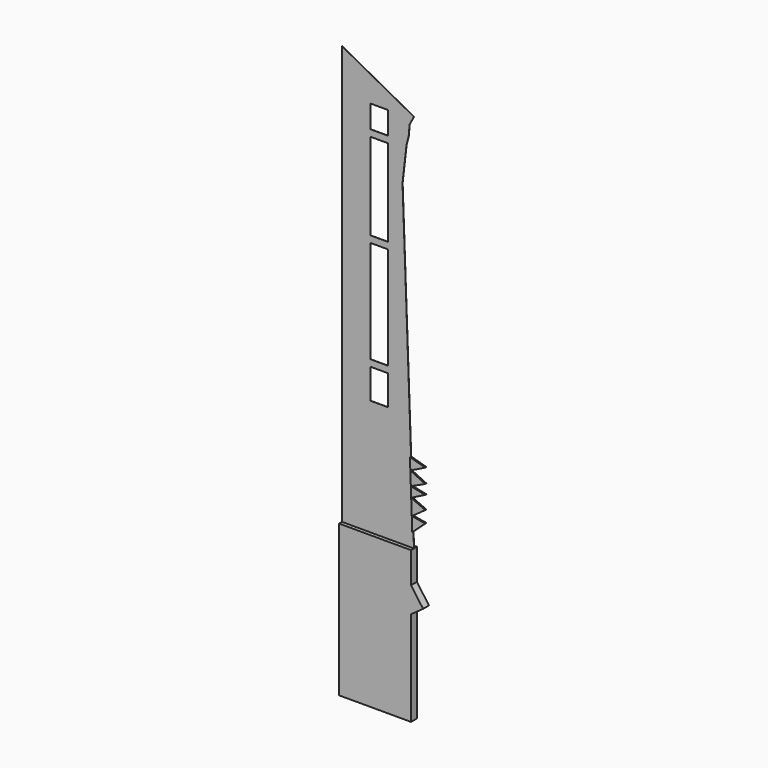
from build123d import *

# Parameters (mm, degrees)
F0_W     = 30.1419294609
F0_H     = 11.43
F1_DEPTH = 0.254
F3_DEPTH = 6.35
F5_DEPTH = 2.54


with BuildPart() as f1:
    # F0 (on Front) → F1 (new body)
    with BuildSketch(Plane.XZ):
        Polygon((12.9361804648, 314.9115679839), (-111.4649921729, 381.9201163345), (-111.4649921729, -341.6439707719), (12.9361804648, -341.6439707719), (-6.8362173624, 207.6474577188), (0, 267.3144340515), (3.8324750494, 282.65401721), (5.3904698068, 300.9029783735), (8.9691670423, 307.5468192501), align=None)
        Polygon((-62.1419251557, 271.5176398946), (-62.1419251557, 310.6756428487), (-31.9999956948, 310.6756428487), (-31.9999956948, 271.5176398946), (-31.9999956948, 260.0876398946), (-31.9999956948, 110.0776017578), (-31.9999956948, 98.6476017578), (-31.9999956948, -78.3114169879), (-31.9999956948, -89.7414169879), (-31.9999956948, -141.4527670427), (-62.1419251557, -141.4527670427), (-62.1419251557, -89.7414169879), (-62.1419251557, -78.3114169879), (-62.1419251557, 98.6476017578), (-62.1419251557, 110.0776017578), (-62.1419251557, 260.0876398946), align=None, mode=Mode.SUBTRACT)
        with Locations((-47.0709604253, 104.3626017578)):
            Rectangle(F0_W, F0_H)
        with Locations((-47.0709604253, 265.8026398946)):
            Rectangle(F0_W, F0_H)
        with Locations((-47.0709604253, -84.0264169879)):
            Rectangle(F0_W, F0_H)
    extrude(amount=F1_DEPTH)

    # F2 (on face) → F3 (join, symmetric)
    with BuildSketch(Plane.XZ.offset(0.254)):
        Polygon((12.9361804648, -341.6439707719), (-111.4649921729, -341.6439707719), (-111.4649921729, -602.9273867607), (12.9361804648, -602.9273867607), (12.9361804648, -439.079940543), (33.7909050286, -424.1771399975), (12.9361804648, -394.9933946133), align=None)
    extrude(amount=F3_DEPTH, both=True)


with BuildPart() as f5:
    # F4 (on face) → F5 (new body)
    with BuildSketch(Plane.XZ.offset(0.254)):
        Polygon((34.3912541866, -210.7275873423), (7.955387585, -203.2739632566), (8.6812435361, -223.4387634865), align=None)
    extrude(amount=F5_DEPTH)


with BuildPart() as f5b:
    # F4 (on face) → F5, piece 2 (new body)
    with BuildSketch(Plane.XZ.offset(0.254)):
        Polygon((34.3912541866, -235.6494069099), (8.6812435361, -223.4387634865), (9.5298459137, -247.0135477039), align=None)
    extrude(amount=F5_DEPTH)


with BuildPart() as f5c:
    # F4 (on face) → F5, piece 3 (new body)
    with BuildSketch(Plane.XZ.offset(0.254)):
        Polygon((34.3912541866, -252.2200345993), (9.5298459137, -247.0135477039), (10.1570874643, -264.4387689827), align=None)
    extrude(amount=F5_DEPTH)


with BuildPart() as f5d:
    # F4 (on face) → F5, piece 4 (new body)
    with BuildSketch(Plane.XZ.offset(0.254)):
        Polygon((34.3912541866, -275.4489779472), (10.1570874643, -264.4387689827), (11.1420411519, -291.8014906281), align=None)
    extrude(amount=F5_DEPTH)


with BuildPart() as f5e:
    # F4 (on face) → F5, piece 5 (new body)
    with BuildSketch(Plane.XZ.offset(0.254)):
        Polygon((34.3912541866, -295.7924902439), (11.1420411519, -291.8014906281), (12.0226099788, -316.2643257906), align=None)
    extrude(amount=F5_DEPTH)


solid = Compound([f1.part, f5.part, f5b.part, f5c.part, f5d.part, f5e.part])
